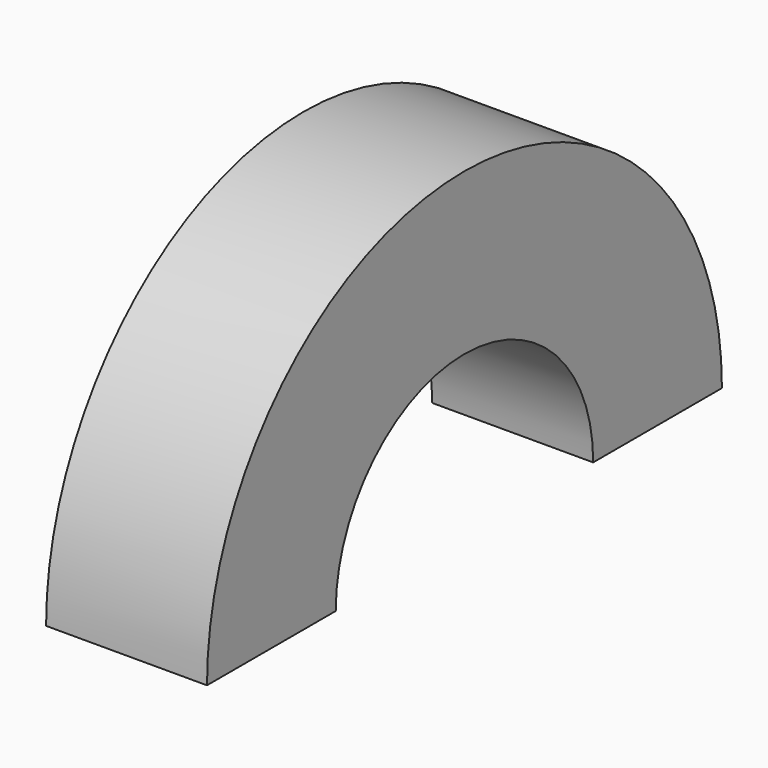
from build123d import *

# Parameters (mm, degrees)
F0_W = 5
F0_H = 5


with BuildPart() as f2:
    # F2: sweep along a path in F1
    with BuildLine(Plane.YZ) as f2_path:
        ThreePointArc((-5.0503057428, 0), (0, 5.0503057428), (5.0503057428, 0))
    # F0 (on Top) → F2 (sweep)
    with BuildSketch(Plane.XY):
        with Locations((-2.5, -7.5)):
            Rectangle(F0_W, F0_H)
    sweep(path=f2_path.line)


solid = f2.part
